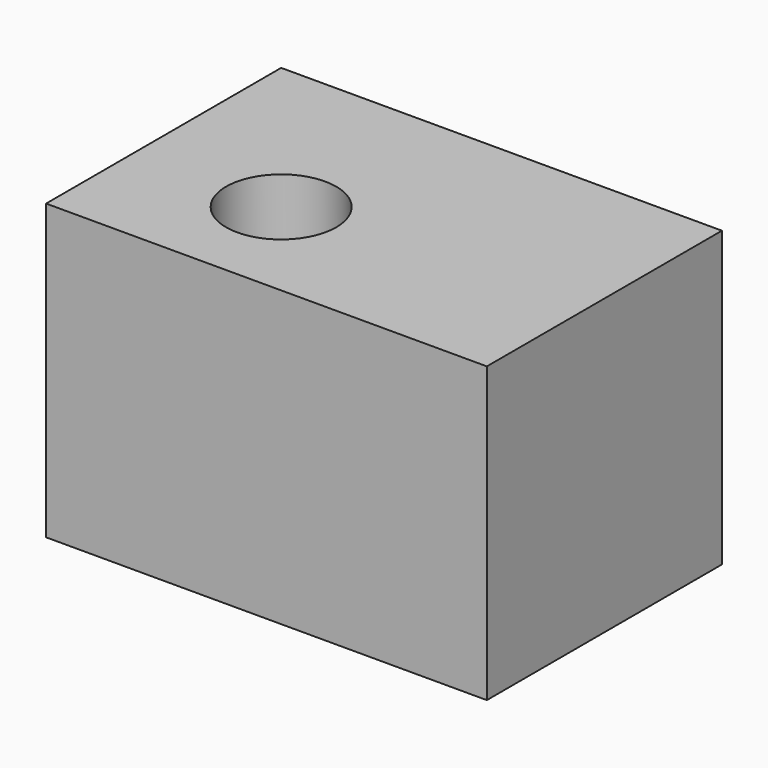
from build123d import *

# Parameters (mm, degrees)
F0_W     = 60
F0_H     = 40
F1_DEPTH = 40
F2_R     = 7.5
F3_DEPTH = 25


with BuildPart() as f1:
    # F0 (on Front) → F1 (new body)
    with BuildSketch(Plane.XZ):
        with Locations((30, 20)):
            Rectangle(F0_W, F0_H)
    extrude(amount=F1_DEPTH)

    # F2 (on face) → F3 (cut)
    with BuildSketch(Plane.XY.offset(40)):
        with Locations((20, -25)):
            Circle(F2_R)
    extrude(amount=-F3_DEPTH, mode=Mode.SUBTRACT)


solid = f1.part
